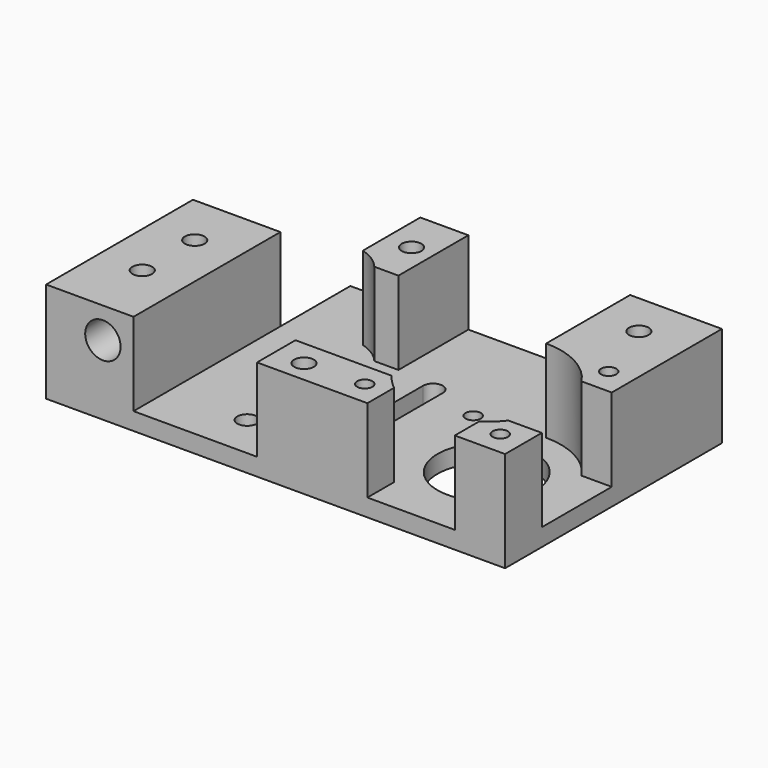
from build123d import *

# Parameters (mm, degrees)
SKETCH_R        = 2.25
SKETCH_R_2      = 11.25
SKETCH_R_3      = 1.75
PAD_DEPTH       = 23
POCKET_DEPTH    = 19
SKETCH004_R     = 2.25
POCKET003_DEPTH = 10
SKETCH005_R     = 4.05
POCKET004_DEPTH = 12
SKETCH006_R     = 3.75
POCKET005_DEPTH = 10


with BuildPart() as part:
    # Sketch → Pad (new body)
    with BuildSketch(Plane.XY):
        Polygon((0, 0), (105, 0), (105, 62), (20, 62), (20, 42), (0, 42), align=None)
        with Locations((38, 10)):
            Circle(SKETCH_R, mode=Mode.SUBTRACT)
        with Locations((33, 35)):
            Circle(SKETCH_R, mode=Mode.SUBTRACT)
        with Locations((84, 21)):
            Circle(SKETCH_R_2, mode=Mode.SUBTRACT)
        with Locations((68.5, 36.5)):
            Circle(SKETCH_R_3, mode=Mode.SUBTRACT)
        with Locations((99.5, 36.5)):
            Circle(SKETCH_R_3, mode=Mode.SUBTRACT)
        with Locations((68.5, 5.5)):
            Circle(SKETCH_R_3, mode=Mode.SUBTRACT)
        with Locations((99.5, 5.5)):
            Circle(SKETCH_R_3, mode=Mode.SUBTRACT)
        with Locations((10, 30)):
            Circle(SKETCH_R, mode=Mode.SUBTRACT)
        with Locations((10, 15)):
            Circle(SKETCH_R, mode=Mode.SUBTRACT)
        with Locations((42, 52)):
            Circle(SKETCH_R, mode=Mode.SUBTRACT)
        with Locations((94, 52)):
            Circle(SKETCH_R, mode=Mode.SUBTRACT)
        with BuildLine():
            Line((58.75, 25), (58.75, 39.999999))
            ThreePointArc((58.75, 39.999999), (56.5, 42.25), (54.25, 39.999998))
            Line((54.25, 25.000001), (54.25, 39.999998))
            ThreePointArc((54.25, 25.000001), (56.5, 22.75), (58.75, 25))
        make_face(mode=Mode.SUBTRACT)
    extrude(amount=PAD_DEPTH)

    # Sketch001 → Pocket (cut)
    with BuildSketch(Plane.XY.offset(23)):
        with BuildLine():
            ThreePointArc((41.485277, 42), (39.015593, 44.209375), (35.999996, 45.583005))
            Line((35.999996, 67), (35.999996, 45.583005))
            Line((20, 67), (35.999996, 67))
            Line((20, -1), (20, 67))
            Line((20, -1), (48.252269, -1))
            Line((48.252269, 11), (48.252269, -1))
            Line((48.252269, 11), (70.252269, 11))
            ThreePointArc((70.252269, 11), (71.759618, 9.202833), (73.499996, 7.630258))
            Line((73.499996, 7.630258), (73.499996, -1))
            Line((73.499996, -1), (93.499996, -1))
            Line((93.499996, -1), (93.499996, 6.902128))
            ThreePointArc((93.499996, 6.902128), (95.574295, 8.548671), (97.367695, 10.497399))
            Line((105.499996, 10.497399), (97.367695, 10.497399))
            Line((105.499996, 30.497399), (105.499996, 10.497399))
            Line((98.099621, 30.497399), (105.499996, 30.497399))
            ThreePointArc((98.099621, 30.497399), (91.98574, 36.007594), (83.999996, 38))
            Line((83.999996, 38), (83.999996, 67))
            Line((83.999996, 67), (46.999996, 67))
            Line((46.999996, 67), (46.999996, 42))
            Line((41.485277, 42), (46.999996, 42))
        make_face()
    extrude(amount=-POCKET_DEPTH, mode=Mode.SUBTRACT)

    # Sketch004 → Pocket003 (cut)
    with BuildSketch(Plane.XY.offset(23)):
        with Locations((55, 5)):
            Circle(SKETCH004_R)
    extrude(amount=-POCKET003_DEPTH, mode=Mode.SUBTRACT)

    # Sketch005 → Pocket004 (cut)
    with BuildSketch(Plane.XZ):
        with Locations((13, 16)):
            Circle(SKETCH005_R)
    extrude(amount=-POCKET004_DEPTH, mode=Mode.SUBTRACT)

    # Sketch006 → Pocket005 (cut)
    with BuildSketch(Plane(origin=(0, 0, 0), x_dir=(1, 0, 0), z_dir=(0, 0, -1))):
        with Locations((10, -15)):
            Circle(SKETCH006_R)
        with Locations((10, -30)):
            Circle(SKETCH006_R)
        with Locations((42, -52)):
            Circle(SKETCH006_R)
        with Locations((94, -52)):
            Circle(SKETCH006_R)
    extrude(amount=-POCKET005_DEPTH, mode=Mode.SUBTRACT)


solid = part.part
